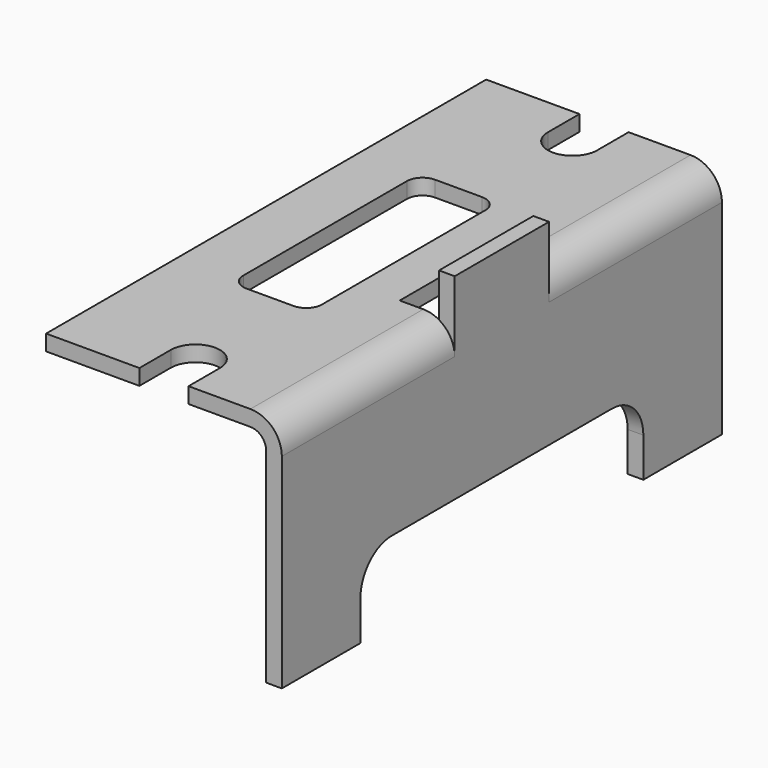
from build123d import *

# Parameters (mm, degrees)
F1_DEPTH      = 88.9
F2_W          = 2.54
F2_H          = 19.05
F2_W_2        = 3.81
F3_DEPTH      = 25.4
F4_W          = 2.54
F4_H          = 19.05
F5_DEPTH      = 6.35
F5_DEPTH_BACK = 6.35
F7_DEPTH      = 25.4
F9_DEPTH      = 25.4
F11_DEPTH     = 25.4


with BuildPart() as f1:
    # F0 (on Front) → F1 (new body)
    with BuildSketch(Plane.XZ):
        with BuildLine():
            ThreePointArc((0, -5.08), (-1.4878975516, -1.4878975516), (-5.08, 0))
            Line((-5.08, 0), (-38.1, 0))
            Line((-38.1, 0), (-38.1, -2.54))
            Line((-38.1, -2.54), (-5.08, -2.54))
            ThreePointArc((-5.08, -2.54), (-3.2839487758, -3.2839487758), (-2.54, -5.08))
            Line((-2.54, -5.08), (-2.54, -38.1))
            Line((-2.54, -38.1), (0, -38.1))
            Line((0, -38.1), (0, -5.08))
        make_face()
    extrude(amount=F1_DEPTH)

    # F2 (on face) → F3 (cut)
    with BuildSketch(Plane.XY):
        with Locations((-3.81, -44.45)):
            Rectangle(F2_W, F2_H)
        with Locations((-6.985, -44.45)):
            Rectangle(F2_W_2, F2_H)
    extrude(amount=-F3_DEPTH, mode=Mode.SUBTRACT)

    # F4 (on face) → F5 (join, two sides)
    with BuildSketch(Plane.XY) as f5_sk:
        with Locations((-1.27, -44.45)):
            Rectangle(F4_W, F4_H)
    extrude(amount=F5_DEPTH)
    extrude(f5_sk.sketch, amount=-F5_DEPTH_BACK)

    # F6 (on face) → F7 (cut)
    with BuildSketch(Plane.XY):
        with BuildLine():
            Line((-23.01875, 0), (-23.01875, -6.35))
            ThreePointArc((-23.01875, -6.35), (-19.05, -10.31875), (-15.08125, -6.35))
            Line((-15.08125, -6.35), (-15.08125, 0))
            Line((-15.08125, 0), (-23.01875, 0))
        make_face()
        with BuildLine():
            Line((-15.08125, -88.9956355095), (-15.08125, -82.55))
            ThreePointArc((-15.08125, -82.55), (-19.05, -78.58125), (-23.01875, -82.55))
            Line((-23.01875, -82.55), (-23.01875, -88.9956355095))
            Line((-23.01875, -88.9956355095), (-15.08125, -88.9956355095))
        make_face()
    extrude(amount=-F7_DEPTH, mode=Mode.SUBTRACT)

    # F8 (on face) → F9 (cut)
    with BuildSketch(Plane.XY):
        with BuildLine():
            Line((-18.415, -25.4), (-26.035, -25.4))
            ThreePointArc((-26.035, -25.4), (-27.8310512242, -26.1439487758), (-28.575, -27.94))
            Line((-28.575, -27.94), (-28.575, -60.96))
            ThreePointArc((-28.575, -60.96), (-27.8310512242, -62.7560512242), (-26.035, -63.5))
            Line((-26.035, -63.5), (-18.415, -63.5))
            ThreePointArc((-18.415, -63.5), (-16.6189487758, -62.7560512242), (-15.875, -60.96))
            Line((-15.875, -60.96), (-15.875, -27.94))
            ThreePointArc((-15.875, -27.94), (-16.6189487758, -26.1439487758), (-18.415, -25.4))
        make_face()
    extrude(amount=-F9_DEPTH, mode=Mode.SUBTRACT)

    # F10 (on face) → F11 (cut)
    with BuildSketch(Plane.YZ):
        with BuildLine():
            Line((-73.025, -31.75), (-73.025, -38.1))
            Line((-73.025, -38.1), (-15.875, -38.1))
            Line((-15.875, -38.1), (-15.875, -31.75))
            ThreePointArc((-15.875, -31.75), (-17.7348719395, -27.2598719395), (-22.225, -25.4))
            Line((-22.225, -25.4), (-66.675, -25.4))
            ThreePointArc((-66.675, -25.4), (-71.1651280605, -27.2598719395), (-73.025, -31.75))
        make_face()
    extrude(amount=-F11_DEPTH, mode=Mode.SUBTRACT)


solid = f1.part
